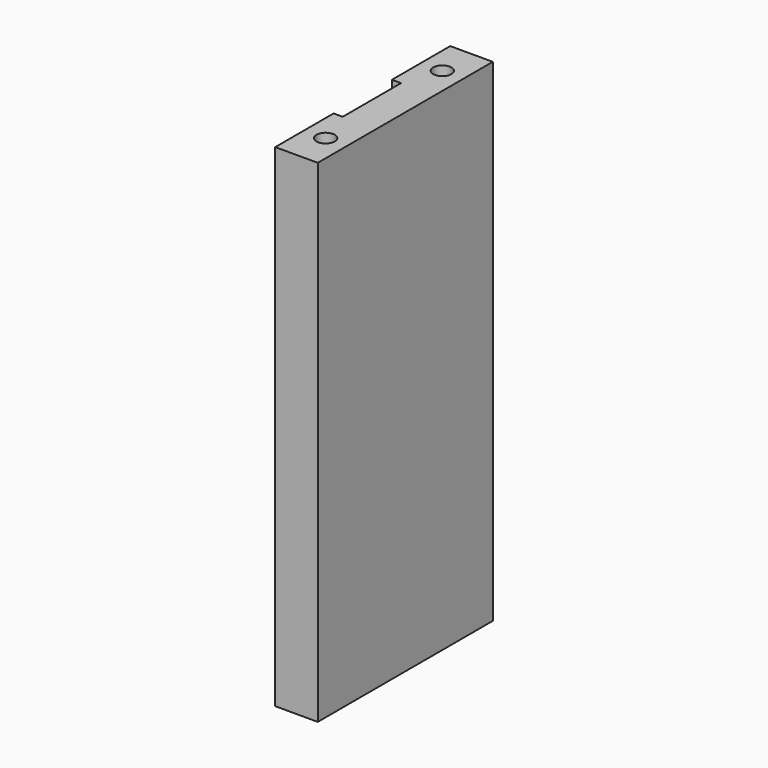
from build123d import *

# Parameters (mm, degrees)
F0_W     = 114.3
F0_H     = 257.175
F1_DEPTH = 22.225
F2_W     = 4.7625
F2_H     = 38.1
F3_DEPTH = 257.176
F4_R     = 4.7625
F5_DEPTH = 50.8


with BuildPart() as f1:
    # F0 (on Right) → F1 (new body)
    with BuildSketch(Plane.YZ):
        Rectangle(F0_W, F0_H)
    extrude(amount=F1_DEPTH)

    # F2 (on face) → F3 (cut, through all)
    with BuildSketch(Plane.XY.offset(128.5875)):
        with Locations((2.38125, 0)):
            Rectangle(F2_W, F2_H)
    extrude(amount=-F3_DEPTH, mode=Mode.SUBTRACT)

    # F4 (on face) → F5 (cut)
    with BuildSketch(Plane.XY.offset(128.5875)):
        with Locations((11.1125, -38.1)):
            Circle(F4_R)
        with Locations((11.1125, 38.1)):
            Circle(F4_R)
    extrude(amount=-F5_DEPTH, mode=Mode.SUBTRACT)


solid = f1.part
